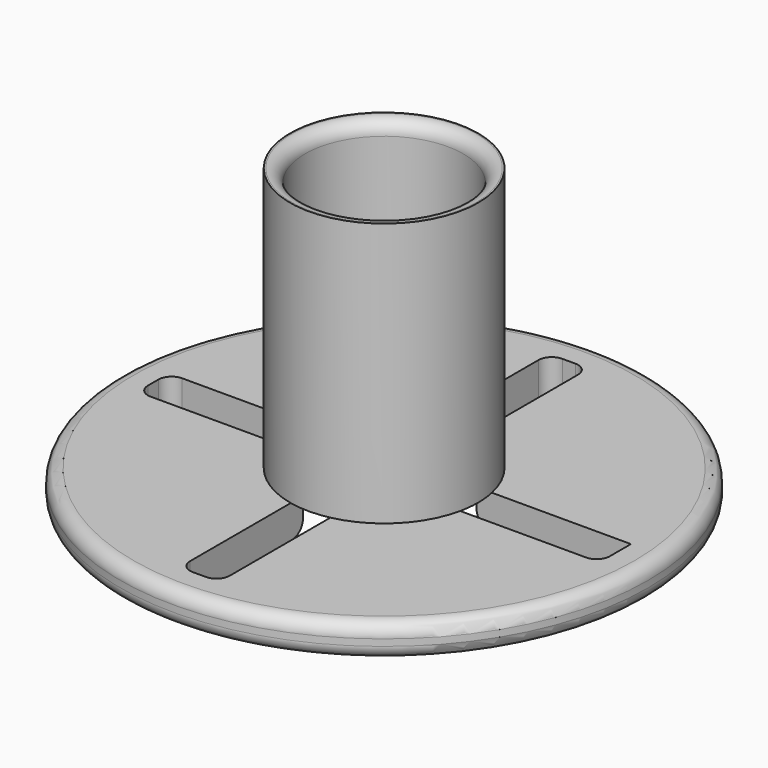
from build123d import *

# Parameters (mm, degrees)
SKETCH_R        = 40
PAD_DEPTH       = 5
SKETCH001_R     = 14.25
PAD001_DEPTH    = 40
SKETCH002_R     = 12
POCKET_DEPTH    = 45.001
POCKET001_DEPTH = 5
FILLET_R        = 2
FILLET001_R     = 2
FILLET002_R     = 1
FILLET003_R     = 2
FILLET004_R     = 2


with BuildPart() as part:
    # Sketch → Pad (new body)
    with BuildSketch(Plane.XY):
        Circle(SKETCH_R)
    extrude(amount=PAD_DEPTH)

    # Sketch001 (on Face3 of Pad) → Pad001 (join)
    with BuildSketch(Plane.XY.offset(5)):
        Circle(SKETCH001_R)
    extrude(amount=PAD001_DEPTH)

    # Sketch002 (on Face5 of Pad001) → Pocket (cut, through all)
    with BuildSketch(Plane.XY.offset(45)):
        Circle(SKETCH002_R)
    extrude(amount=-POCKET_DEPTH, mode=Mode.SUBTRACT)

    # Sketch003 (on Face2 of Pocket) → Pocket001 (cut)
    with BuildSketch(Plane(origin=(0, 0, 0), x_dir=(1, 0, 0), z_dir=(0, 0, -1))):
        Polygon((-3, 35), (-3, 3), (-35, 3), (-35, -3), (-3, -3), (-3, -35), (3, -35), (3, -3), (35, -3), (35, 3), (3, 3), (3, 35), align=None)
    extrude(amount=-POCKET001_DEPTH, mode=Mode.SUBTRACT)

    # Fillet
    fillet_edges = [part.edges().sort_by_distance(p)[0] for p in [
        (-3, -35, 2.5),
        (3, -35, 2.5),
        (35, -3, 2.5),
        (-35, -3, 2.5),
        (-35, 3, 2.5),
        (-3, 35, 2.5),
        (3, 35, 2.5),
    ]]
    fillet(fillet_edges, radius=FILLET_R)

    # Fillet001
    fillet001_edges = [part.edges().sort_by_distance(p)[0] for p in [
        (8.485281, -8.485281, 0),
        (8.485281, 8.485281, 0),
        (-8.485281, 8.485281, 0),
        (-8.485281, -8.485281, 0),
    ]]
    fillet(fillet001_edges, radius=FILLET001_R)

    # Fillet002
    fillet002_edges = [part.edges().sort_by_distance(p)[0] for p in [
        (0, -12, 5),
        (11.904356, -1.512052, 5),
        (0, 12, 5),
        (-12, 0, 5),
    ]]
    fillet(fillet002_edges, radius=FILLET002_R)

    # Fillet003
    fillet003_edges = [part.edges().sort_by_distance(p)[0] for p in [
        (-40, 0, 5),
        (-40, 0, 0),
    ]]
    fillet(fillet003_edges, radius=FILLET003_R)

    # Fillet004
    fillet004_edges = [part.edges().sort_by_distance(p)[0] for p in [
        (-12, 0, 45),
    ]]
    fillet(fillet004_edges, radius=FILLET004_R)


solid = part.part
